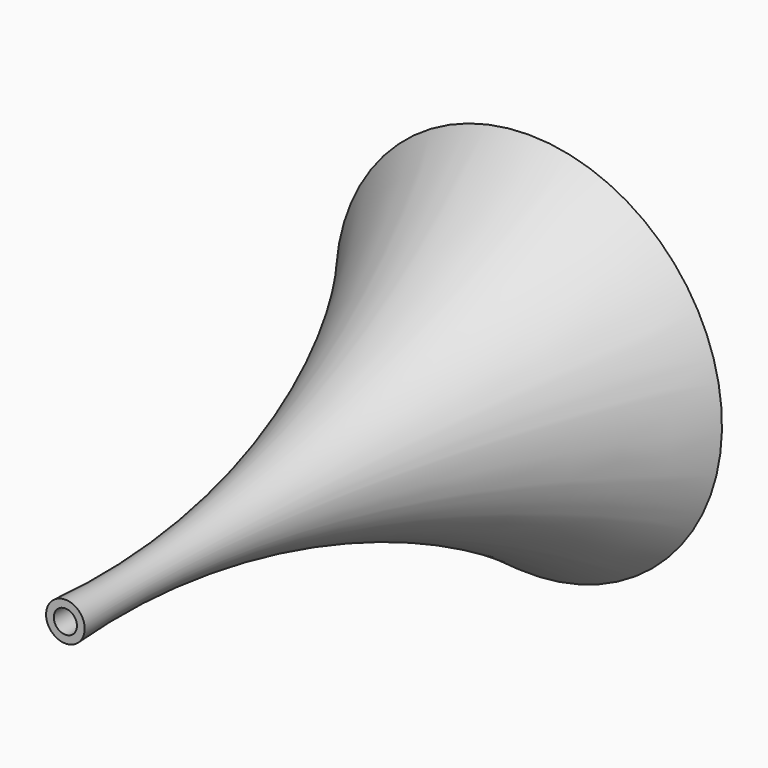
from build123d import *


with BuildPart() as f1:
    # F0 (on Right) → F1 (revolve)
    with BuildSketch(Plane.YZ):
        with BuildLine():
            Line((-14.388154, 5), (-14.388154, 3))
            ThreePointArc((-14.388154, 3), (64.567544, 11.920117), (135.611846, 47.504915))
            Line((135.611846, 47.504915), (135.611846, 50))
            ThreePointArc((135.611846, 50), (64.653274, 14.028572), (-14.388154, 5))
        make_face()
    revolve(axis=Axis((0, -3.169167, 0), (0, 1, 0)))


solid = f1.part
